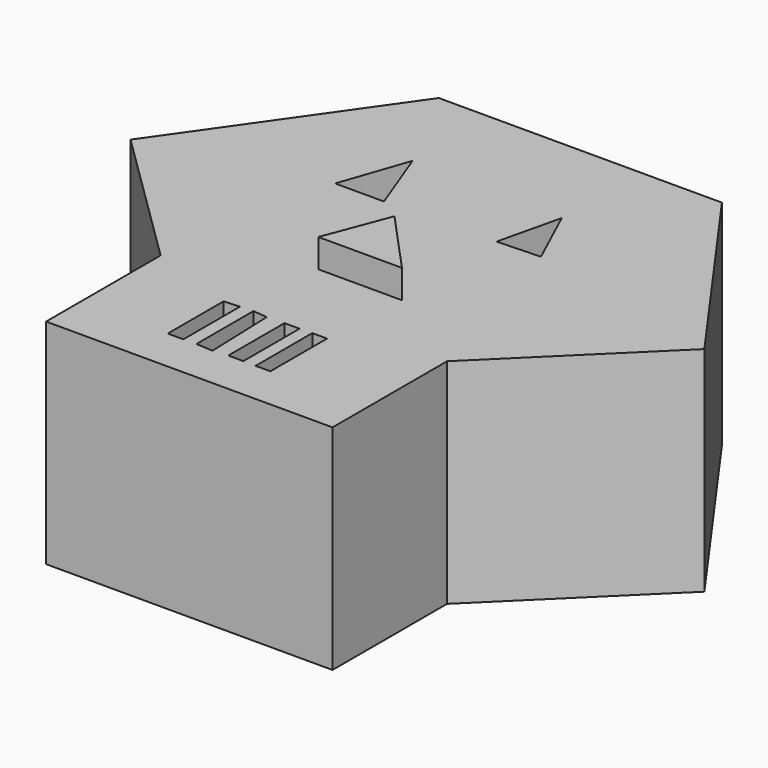
from build123d import *

# Parameters (mm, degrees)
PAD_DEPTH       = 15
POCKET_DEPTH    = 4
POCKET001_DEPTH = 4
PAD001_DEPTH    = 2
POCKET002_DEPTH = 4
POCKET003_DEPTH = 4
SKETCH006_W     = 1.060891
SKETCH006_H     = 4.93171
POCKET004_DEPTH = 4
SKETCH007_W     = 1.038232
SKETCH007_H     = 4.977957
POCKET005_DEPTH = 4


with BuildPart() as part:
    # Sketch → Pad (new body)
    with BuildSketch(Plane.XY):
        Polygon((-10.147716, -10.055362), (9.967627, -10.055362), (9.967627, 0), (20.083433, 9.943707), (9.967627, 24.129093), (-9.915169, 24.129093), (-20.030979, 9.711162), (-10.147716, 0), align=None)
    extrude(amount=PAD_DEPTH)

    # Sketch001 (on Face10 of Pad) → Pocket (cut)
    with BuildSketch(Plane.XY.offset(15)):
        Polygon((-8.015594, 12.653538), (-6.378841, 17.407913), (-4.586209, 12.653538), align=None)
    extrude(amount=-POCKET_DEPTH, mode=Mode.SUBTRACT)

    # Sketch002 (on Face5 of Pocket) → Pocket001 (cut)
    with BuildSketch(Plane.XY.offset(15)):
        Polygon((3.209776, 12.792396), (4.256241, 17.210794), (6.232895, 12.908666), align=None)
    extrude(amount=-POCKET001_DEPTH, mode=Mode.SUBTRACT)

    # Sketch003 (on Face5 of Pocket001) → Pad001 (join)
    with BuildSketch(Plane.XY.offset(15)):
        Polygon((-0.640232, 8.644424), (-2.363165, 4.113749), (3.507571, 4.113749), align=None)
    extrude(amount=PAD001_DEPTH)

    # Sketch004 (on Face5 of Pad001) → Pocket002 (cut)
    with BuildSketch(Plane.XY.offset(15)):
        Polygon((-4.047933, -2.089132), (-4.047933, -7.000175), (-2.950786, -7.000175), (-2.950786, -2.036887), align=None)
    extrude(amount=-POCKET002_DEPTH, mode=Mode.SUBTRACT)

    # Sketch005 (on Face5 of Pocket002) → Pocket003 (cut)
    with BuildSketch(Plane.XY.offset(15)):
        Polygon((-2.046365, -1.977987), (-2.046365, -6.985984), (-0.855654, -7.056026), (-1.030757, -2.08305), align=None)
    extrude(amount=-POCKET003_DEPTH, mode=Mode.SUBTRACT)

    # Sketch006 (on Face5 of Pocket003) → Pocket004 (cut)
    with BuildSketch(Plane.XY.offset(15)):
        with Locations((0.70562, -4.49912)):
            Rectangle(SKETCH006_W, SKETCH006_H)
    extrude(amount=-POCKET004_DEPTH, mode=Mode.SUBTRACT)

    # Sketch007 (on Face5 of Pocket004) → Pocket005 (cut)
    with BuildSketch(Plane.XY.offset(15)):
        with Locations((2.627853, -4.495738)):
            Rectangle(SKETCH007_W, SKETCH007_H)
    extrude(amount=-POCKET005_DEPTH, mode=Mode.SUBTRACT)


solid = part.part
